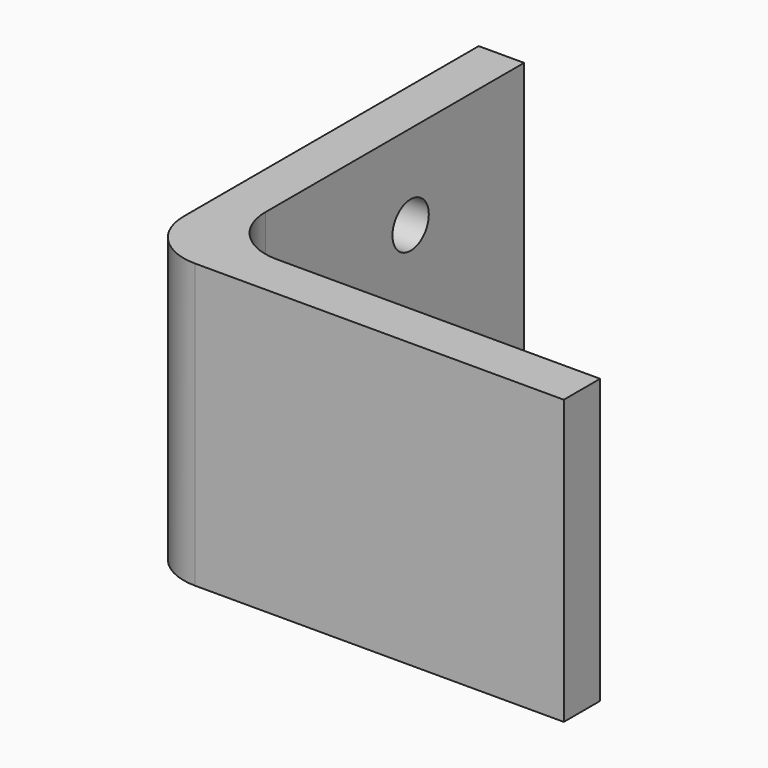
from build123d import *

# Parameters (mm, degrees)
F1_DEPTH = 50
F2_R     = 10
F3_R     = 4
F4_DEPTH = 8.001


with BuildPart() as f1:
    # F0 (on Top) → F1 (new body)
    with BuildSketch(Plane.XY):
        Polygon((8, 75), (0, 75), (0, 0), (75, 0), (75, 8), (8, 8), align=None)
    extrude(amount=F1_DEPTH)

    # F2
    f2_edges = [f1.edges().sort_by_distance(p)[0] for p in [
        (8, 8, 25),
        (0, 0, 25),
    ]]
    fillet(f2_edges, radius=F2_R)

    # F3 (on face) → F4 (cut, through all)
    with BuildSketch(Plane.YZ.offset(8)):
        with Locations((50, 35)):
            Circle(F3_R)
        with Locations((50, 15)):
            Circle(F3_R)
    extrude(amount=-F4_DEPTH, mode=Mode.SUBTRACT)


solid = f1.part
